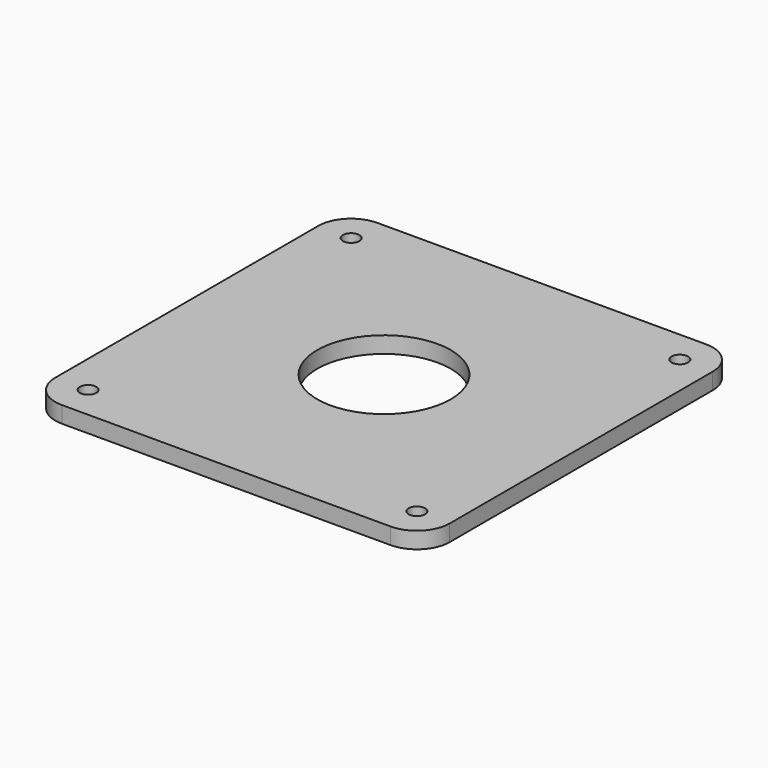
from build123d import *

# Parameters (mm, degrees)
F0_R     = 3.175
F0_R_2   = 25.781
F1_DEPTH = 6.35


with BuildPart() as f1:
    # F0 (on Top) → F1 (new body)
    with BuildSketch(Plane.XY):
        with BuildLine():
            Line((139.7, 0), (12.7, 0))
            ThreePointArc((12.7, 0), (3.719744, -3.719744), (0, -12.7))
            Line((0, -12.7), (0, -139.7))
            ThreePointArc((0, -139.7), (3.719744, -148.680256), (12.7, -152.4))
            Line((12.7, -152.4), (139.7, -152.4))
            ThreePointArc((139.7, -152.4), (148.680256, -148.680256), (152.4, -139.7))
            Line((152.4, -139.7), (152.4, -12.7))
            ThreePointArc((152.4, -12.7), (148.680256, -3.719744), (139.7, 0))
        make_face()
        with Locations((12.7, -139.7)):
            Circle(F0_R, mode=Mode.SUBTRACT)
        with Locations((139.7, -139.7)):
            Circle(F0_R, mode=Mode.SUBTRACT)
        with Locations((76.2, -76.2)):
            Circle(F0_R_2, mode=Mode.SUBTRACT)
        with Locations((12.7, -12.7)):
            Circle(F0_R, mode=Mode.SUBTRACT)
        with Locations((139.7, -12.7)):
            Circle(F0_R, mode=Mode.SUBTRACT)
    extrude(amount=F1_DEPTH)


solid = f1.part
